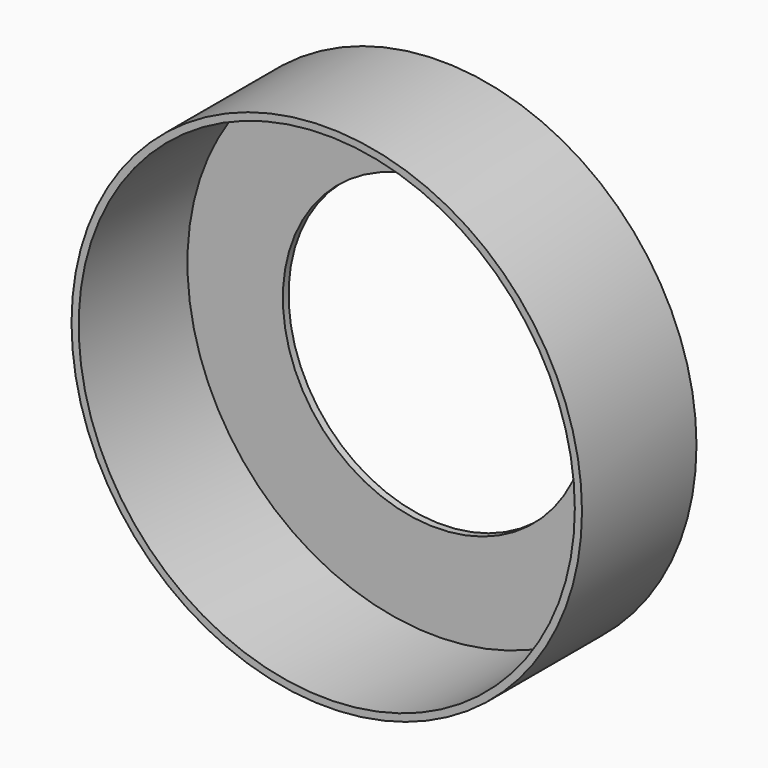
from build123d import *

# Parameters (mm, degrees)
F0_R     = 53.5
F0_R_2   = 51.5
F1_DEPTH = 30
F2_T     = -1.5
F3_R     = 32
F4_DEPTH = 25


with BuildPart() as f1:
    # F0 (on Front) → F1 (new body)
    with BuildSketch(Plane.XZ):
        Circle(F0_R)
        Circle(F0_R_2, mode=Mode.SUBTRACT)
        Circle(F0_R_2)
    extrude(amount=F1_DEPTH)

    # F2
    f2_openings = [f1.faces().sort_by_distance(p)[0] for p in [
        (0, -30, 0),
    ]]
    offset(amount=F2_T, openings=f2_openings)

    # F3 (on face) → F4 (cut)
    with BuildSketch(Plane.XZ.offset(1.5)):
        Circle(F3_R)
    extrude(amount=-F4_DEPTH, mode=Mode.SUBTRACT)


solid = f1.part
